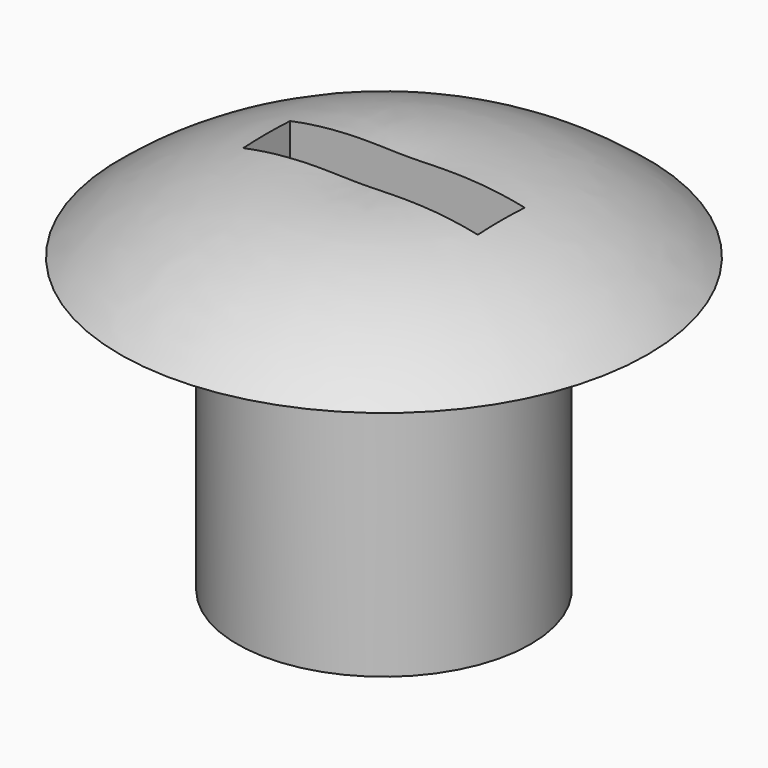
from build123d import *

# Parameters (mm, degrees)
F2_W     = 10.16
F2_H     = 2.54
F3_DEPTH = 25.4


with BuildPart() as f1:
    # F0 (on Front) → F1 (revolve)
    with BuildSketch(Plane.XZ):
        with BuildLine():
            Line((0, 15.875), (0, 0))
            Line((0, 0), (6.35, 0))
            Line((6.35, 0), (6.35, 12.7))
            Line((6.35, 12.7), (11.43, 12.7))
            ThreePointArc((11.43, 12.7), (6.055334, 15.512702), (0, 15.875))
        make_face()
    revolve(axis=Axis((0, 0, 4.292885), (0, 0, -1)))

    # F2 (on face) → F3 (cut)
    with BuildSketch(Plane(origin=(0, 0, 12.7), x_dir=(1, 0, 0), z_dir=(0, 0, -1))):
        Rectangle(F2_W, F2_H)
    extrude(amount=-F3_DEPTH, mode=Mode.SUBTRACT)


solid = f1.part
